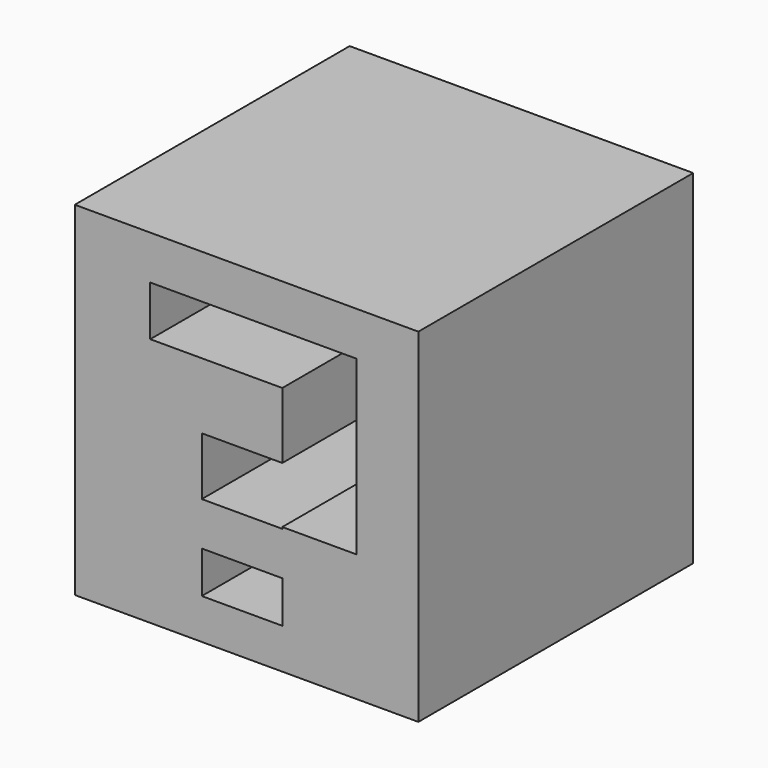
from build123d import *

# Parameters (mm, degrees)
F0_W     = 25.4
F0_H     = 25.4
F0_W_2   = 5.953182
F0_H_2   = 3.095396
F1_DEPTH = 25.4


with BuildPart() as f1:
    # F0 (on Front) → F1 (new body)
    with BuildSketch(Plane.XZ):
        with Locations((-40.640003, -36.830003)):
            Rectangle(F0_W, F0_H)
        with Locations((-40.975282, -44.996828)):
            Rectangle(F0_W_2, F0_H_2, mode=Mode.SUBTRACT)
        Polygon((-37.998691, -40.234677), (-43.951873, -40.234677), (-43.951873, -35.948742), (-37.998691, -35.948742), (-37.998691, -31.067541), (-43.951873, -31.067541), (-47.761906, -31.067541), (-47.761906, -27.376875), (-43.951873, -27.376875), (-37.998691, -27.376875), (-32.521766, -27.376875), (-32.521766, -31.067541), (-32.521766, -35.948742), (-32.521766, -40.115625), (-37.998691, -40.115625), align=None, mode=Mode.SUBTRACT)
    extrude(amount=F1_DEPTH)


solid = f1.part
